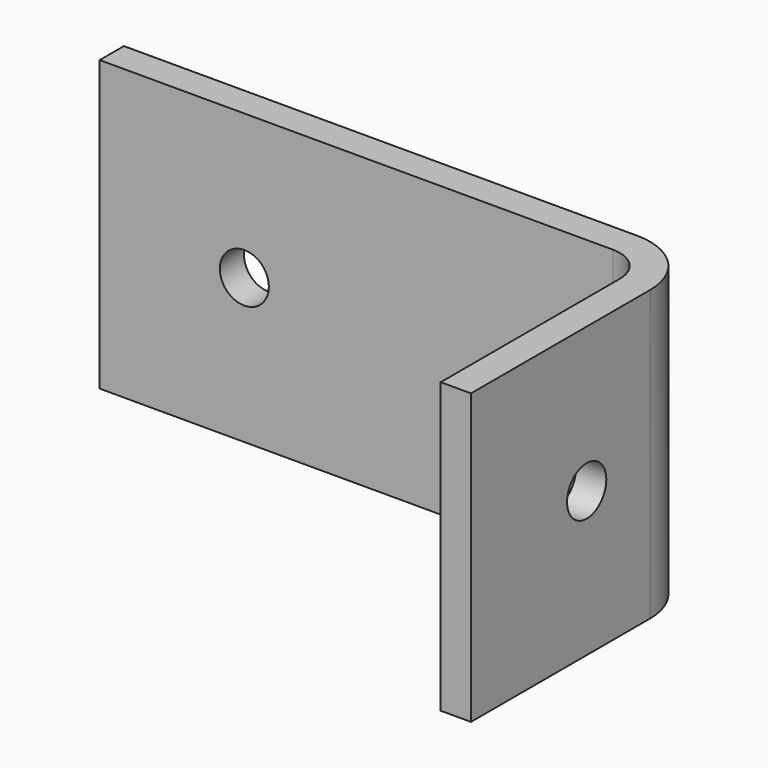
from build123d import *

# Parameters (mm, degrees)
F1_DEPTH = 25.4
F2_R     = 2.15265
F3_DEPTH = 2.65684
F4_R     = 2.15265
F5_DEPTH = 2.65684
F6_R     = 3.08356
F7_R     = 5.7404


with BuildPart() as f1:
    # F0 (on Top) → F1 (new body)
    with BuildSketch(Plane.XY):
        Polygon((0, 2.65684), (0, 0), (48.14316, 0), (48.14316, -22.74316), (50.8, -22.74316), (50.8, 2.65684), align=None)
    extrude(amount=F1_DEPTH)

    # F2 (on face) → F3 (cut, through all)
    with BuildSketch(Plane(origin=(0, 2.65684, 0), x_dir=(-1, 0, 0), z_dir=(0, 1, 0))):
        with Locations((-12.7, 12.7)):
            Circle(F2_R)
    extrude(amount=-F3_DEPTH, mode=Mode.SUBTRACT)

    # F4 (on face) → F5 (cut, through all)
    with BuildSketch(Plane.YZ.offset(50.8)):
        with Locations((-10.04316, 12.7)):
            Circle(F4_R)
    extrude(amount=-F5_DEPTH, mode=Mode.SUBTRACT)

    # F6
    f6_edges = [f1.edges().sort_by_distance(p)[0] for p in [
        (48.14316, 0, 12.7),
    ]]
    fillet(f6_edges, radius=F6_R)

    # F7
    f7_edges = [f1.edges().sort_by_distance(p)[0] for p in [
        (50.8, 2.65684, 12.7),
    ]]
    fillet(f7_edges, radius=F7_R)


solid = f1.part
